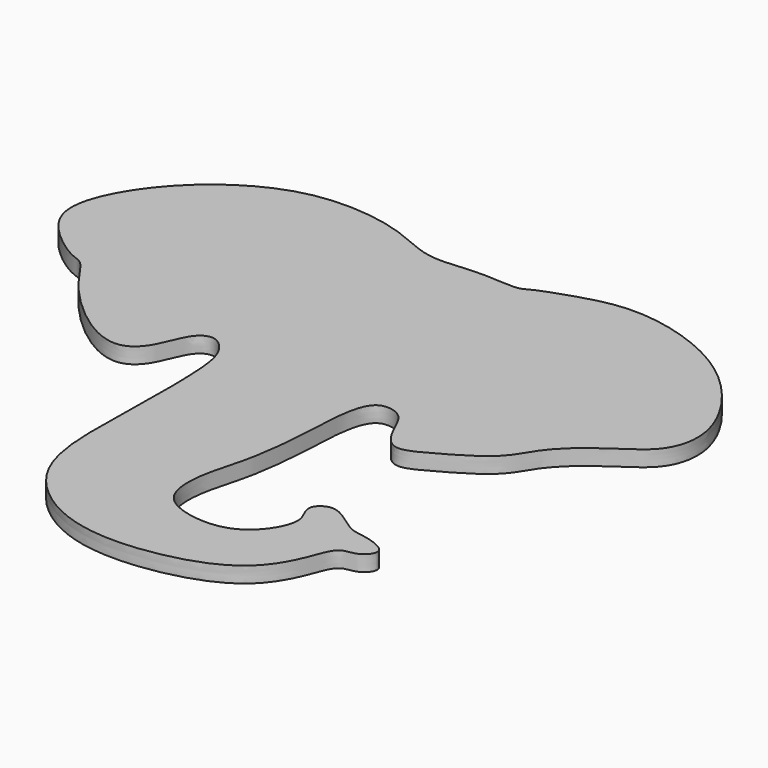
from build123d import *

# Parameters (mm, degrees)
F1_DEPTH = 2.54


with BuildPart() as f1:
    # F0 (on Top) → F1 (new body)
    with BuildSketch(Plane.XY):
        with BuildLine():
            add(Edge.make_bspline(
                [(74.4272693992, 114.0111982822), (72.3203207577, 114.0403186165), (68.6799057551, 113.5218771887), (64.1935916619, 113.8030829727), (57.7498903454, 117.3949543678), (42.8271597349, 119.2028815099), (28.6185808383, 110.234366989), (21.6397156615, 98.6680683358), (22.7159389267, 91.2803853862), (30.2417575066, 85.633021692), (32.782043349, 85.3933568431), (35.9135409008, 79.7903903925), (43.5745383834, 72.2749378633), (50.479012402, 69.5302747205), (54.170361817, 72.9254103519), (55.5789769613, 78.2880072014), (58.6385177963, 80.0216719492), (61.8929161771, 76.9513376597), (62.7755855475, 70.4040514103), (62.5834579688, 55.0682173016), (62.0411350248, 38.4160366612), (74.3048847155, 28.2652034108), (88.8376618157, 28.1846808754), (101.0231054623, 32.3268706947), (105.0859510525, 39.6660724139), (106.4461664102, 44.7448801524), (109.6356761317, 44.3081097119), (112.2028678498, 47.5032791686), (106.9190485685, 49.2580757316), (104.3065769308, 49.1341686468), (99.5462046177, 53.8195661143), (95.9170229644, 50.8360443965), (98.493353936, 47.8831617291), (97.0663282945, 43.5356743687), (92.9852067878, 39.6004486095), (86.636969773, 39.3806853473), (80.5647060452, 41.86198197), (80.3576067433, 49.3908454396), (82.8842516632, 56.497598037), (83.8386277163, 66.419826338), (83.871057514, 72.9810380159), (85.354498593, 78.8951217485), (90.2238478815, 77.9834059048), (91.5056449161, 74.2281590615), (94.4211614922, 69.2939638835), (99.7029037942, 72.0760288182), (107.4359992456, 76.4549799248), (109.458761272, 81.5646387833), (115.4771850409, 86.835922075), (122.3171814452, 90.562915446), (123.9280858244, 98.7864606097), (117.3102501921, 109.408340507), (107.4238703966, 116.1802396081), (94.6806209673, 119.1406577539), (86.1227444744, 116.3090148092), (81.5982625852, 114.7541705805), (79.9103892326, 113.4776938071), (76.4645757582, 113.9830404804), (74.4272693992, 114.0111982822)],
                knots=[0, 0, 0, 0, 0.016647983, 0.0307722069, 0.0490885006, 0.0752595776, 0.1033792664, 0.1279637268, 0.145953087, 0.1662295318, 0.1767064074, 0.1933099045, 0.2165306828, 0.2342420945, 0.2484048568, 0.2645764029, 0.2759074768, 0.2888438945, 0.3062043305, 0.3334873759, 0.3613223762, 0.3870190778, 0.4131099568, 0.437334831, 0.4569569641, 0.4714943972, 0.4827771387, 0.4938626022, 0.5079976876, 0.5200419746, 0.5366043702, 0.5484507561, 0.5605799407, 0.5746469798, 0.5906565844, 0.6077589834, 0.6242678808, 0.6418490766, 0.6612197162, 0.6828825024, 0.7011699422, 0.7165460702, 0.7294140579, 0.7432190513, 0.7581392507, 0.7736163551, 0.7941439617, 0.8101102123, 0.8293623034, 0.8482780007, 0.8667435819, 0.8905026309, 0.9145857227, 0.9391886844, 0.9598562539, 0.9743886857, 0.9839022931, 1, 1, 1, 1], degree=3))
        make_face()
    extrude(amount=F1_DEPTH)


solid = f1.part
